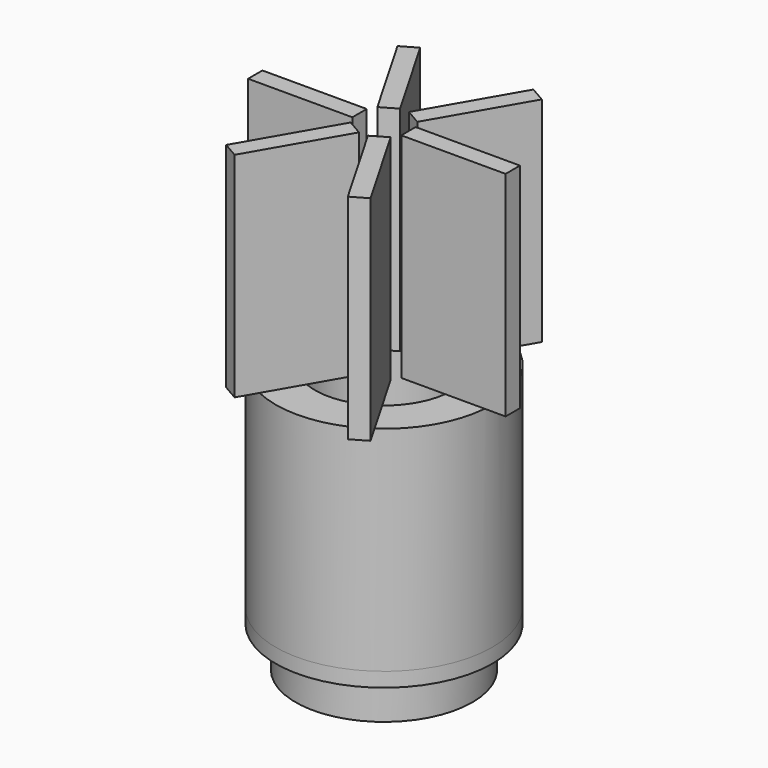
from build123d import *

# Parameters (mm, degrees)
F2_FACE_R   = 12.8778
F2_FACE_R_2 = 8.2042
F3_DEPTH    = 25.4
F4_W        = 12.40562
F4_H        = 2.135868
F5_DEPTH    = 25.4


with BuildPart() as f2:
    # F1 (on Front) → F2 (revolve)
    with BuildSketch(Plane.XZ):
        Polygon((12.8778, 0), (8.2042, 0), (8.2042, -6.5278), (10.50925, -6.5278), (10.50925, -1.7145), (12.8778, -1.7145), align=None)
    revolve(axis=Axis((0, 0, 18.280845), (0, 0, 1)))

    # F2_face (on face) → F3 (join)
    with BuildSketch(Plane.XY):
        Circle(F2_FACE_R)
        Circle(F2_FACE_R_2, mode=Mode.SUBTRACT)
    extrude(amount=F3_DEPTH)

    # F4 (on face) → F5 (join)
    with BuildSketch(Plane.XY.offset(25.4)):
        with Locations((9.112263, 0)):
            Rectangle(F4_W, F4_H)
        Polygon((6.732679, 13.797209), (0.529869, 3.053627), (2.379584, 1.985693), (8.582394, 12.729275), align=None)
        Polygon((-8.582394, 12.729275), (-2.379584, 1.985693), (-0.529869, 3.053627), (-6.732679, 13.797209), align=None)
        with Locations((-9.112263, 0)):
            Rectangle(F4_W, F4_H)
        Polygon((-6.732679, -13.797209), (-0.529869, -3.053627), (-2.379584, -1.985693), (-8.582394, -12.729275), align=None)
        Polygon((8.582394, -12.729275), (2.379584, -1.985693), (0.529869, -3.053627), (6.732679, -13.797209), align=None)
    extrude(amount=F5_DEPTH)


solid = f2.part
